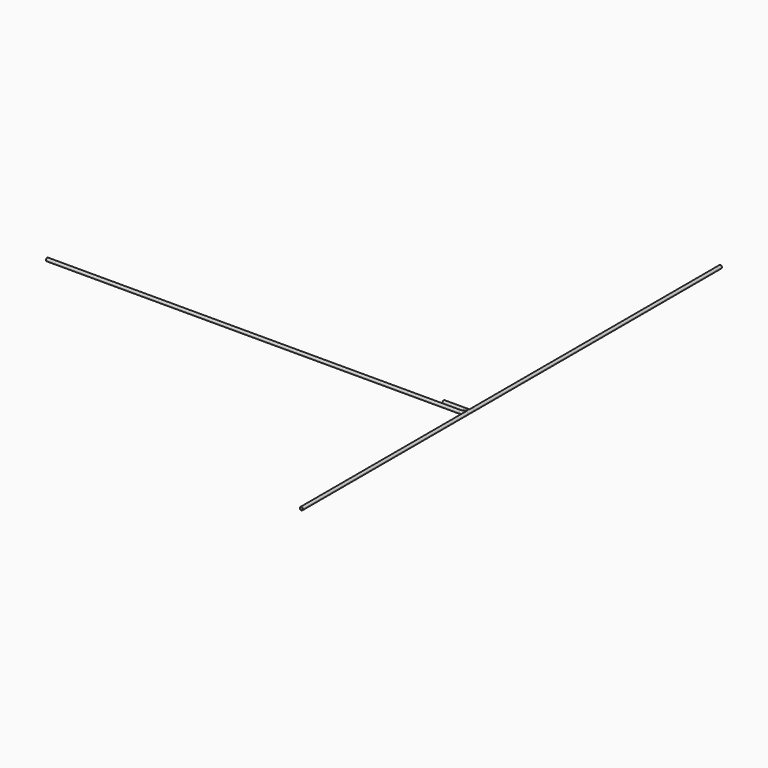
from build123d import *

# Parameters (mm, degrees)
F0_R          = 7.5
F0_R_2        = 6.5
F1_DEPTH      = 18
F1_DEPTH_BACK = 18
F2_R          = 6.5
F3_DEPTH      = 25.01
F2_R_2        = 7.5
F5_DEPTH      = 1000
F6_DEPTH      = 100
F7_DEPTH      = 1500
F8_ANGLE      = 90
F9_DEPTH      = 2000


with BuildPart() as f1:
    # F0 (on Front) → F1 (new body, two sides)
    with BuildSketch(Plane.XZ) as f1_sk:
        with Locations((25, 0)):
            Circle(F0_R)
        with Locations((25, 0)):
            Circle(F0_R_2, mode=Mode.SUBTRACT)
    extrude(amount=F1_DEPTH)
    extrude(f1_sk.sketch, amount=-F1_DEPTH_BACK)

    # F2 (on Right) → F3 (cut, up to face)
    with BuildSketch(Plane.YZ):
        Circle(F2_R)
    extrude(amount=F3_DEPTH, mode=Mode.SUBTRACT)

    # F2 (on Right) → F4 (join, up to the next surface of F1)
    with BuildSketch(Plane.YZ):
        Circle(F2_R_2)
        Circle(F2_R, mode=Mode.SUBTRACT)
    extrude(until=Until.NEXT)


with BuildPart() as f5:
    # F5 (new): a face of the model
    f5_faces = [f1.part.faces().sort_by_distance(p)[0] for p in [
        (17.7121320344, -18, 0),
    ]]
    extrude(f5_faces, amount=F5_DEPTH)


with BuildPart() as f6:
    # F2 (on Right) → F6 (new body)
    with BuildSketch(Plane.YZ):
        Circle(F2_R_2)
        Circle(F2_R, mode=Mode.SUBTRACT)
    extrude(amount=-F6_DEPTH)


with BuildPart() as f7:
    # F7 (new): a face of the model
    f7_faces = [f1.part.faces().sort_by_distance(p)[0] for p in [
        (17.7121320344, 18, 0),
    ]]
    extrude(f7_faces, amount=F7_DEPTH)


with BuildPart() as f8:
    # F0 (on Front) → F8 (revolve)
    with BuildSketch(Plane.XZ):
        with Locations((25, 0)):
            Circle(F0_R)
        with Locations((25, 0)):
            Circle(F0_R_2, mode=Mode.SUBTRACT)
    revolve(axis=Axis((0, 0, -8.9548928663), (0, 0, -1)), revolution_arc=F8_ANGLE)


with BuildPart() as f9:
    # F9 (new): a face of the model
    f9_faces = [f8.part.faces().sort_by_distance(p)[0] for p in [
        (0, -17.7121320344, 0),
    ]]
    extrude(f9_faces, amount=F9_DEPTH)


solid = Compound([f1.part, f5.part, f6.part, f7.part, f8.part, f9.part])
